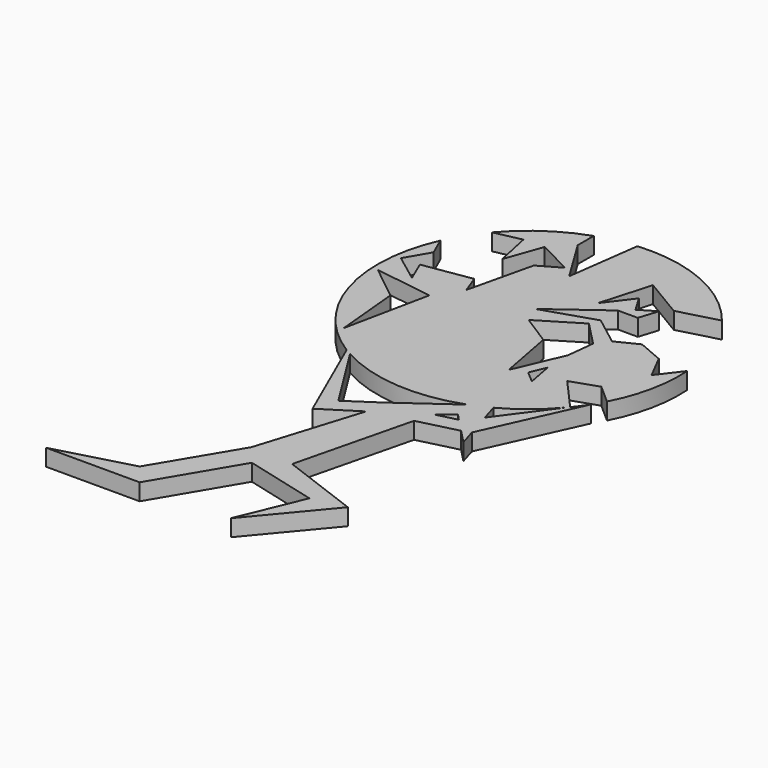
from build123d import *

# Parameters (mm, degrees)
F1_DEPTH = 4


with BuildPart() as f1:
    # F0 (on Top) → F1 (new body)
    with BuildSketch(Plane.XY):
        with BuildLine():
            Line((-9.863807, -65.836951), (-28.221913, -70.849411))
            Line((-28.221913, -70.849411), (-5.88068, -70.849411))
            Line((-5.88068, -70.849411), (5.52761, -51.597916))
            Line((5.52761, -51.597916), (22.877717, -56.113698))
            Line((22.877717, -56.113698), (16.460553, -71.562424))
            Line((16.460553, -71.562424), (30.720916, -54.44999))
            Line((30.720916, -54.44999), (11.707101, -47.319807))
            Line((11.707101, -47.319807), (18.559989, -19.489294))
            Line((18.559989, -19.489294), (27.928099, -17.142748))
            Line((27.928099, -17.142748), (31.150259, -20.496517))
            Line((31.150259, -20.496517), (29.922873, -16.418136))
            Line((29.922873, -16.418136), (40.215254, 6.320762))
            ThreePointArc((40.215254, 6.320762), (39.07685, 4.638557), (37.845484, 3.023156))
            Line((37.845484, 3.023156), (30.833699, 10.89257))
            Line((30.833699, 10.89257), (37.233405, 13.086755))
            Line((37.233405, 13.086755), (41.796244, 9.064083))
            ThreePointArc((41.796244, 9.064083), (45.083627, 18.276724), (45.772686, 28.03402))
            Line((45.772686, 28.03402), (41.621767, 22.594886))
            Line((41.621767, 22.594886), (38.548019, 28.587904))
            Line((38.548019, 28.587904), (32.479335, 31.188771))
            Line((32.479335, 31.188771), (27.359569, 28.628892))
            Line((27.359569, 28.628892), (20.41132, 33.931505))
            Line((20.41132, 33.931505), (7.97761, 29.908832))
            Line((7.97761, 29.908832), (20.41132, 39.051265))
            Line((20.41132, 39.051265), (25.165388, 39.051265))
            Line((25.165388, 39.051265), (26.628176, 43.622486))
            Line((26.628176, 43.622486), (22.788357, 41.336875))
            Line((22.788357, 41.336875), (20.41132, 45.33029))
            Line((20.41132, 45.33029), (15.657255, 39.051265))
            Line((15.657255, 39.051265), (19.131379, 51.119279))
            Line((19.131379, 51.119279), (28.63951, 45.450971))
            Line((28.63951, 45.450971), (38.112831, 47.983287))
            ThreePointArc((38.112831, 47.983287), (24.277711, 58.679623), (7.036208, 61.604132))
            Line((7.036208, 61.604132), (4.686333, 44.171032))
            Line((4.686333, 44.171032), (-1.90921, 54.959098))
            Line((-1.90921, 54.959098), (-1.90921, 59.75246))
            ThreePointArc((-1.90921, 59.75246), (-10.497436, 55.445101), (-17.642448, 49.021725))
            Line((-17.642448, 49.021725), (-11.221501, 50.387885))
            Line((-11.221501, 50.387885), (-9.393012, 41.793998))
            Line((-9.393012, 41.793998), (-6.284588, 50.570734))
            Line((-6.284588, 50.570734), (1.943606, 46.365213))
            Line((1.943606, 46.365213), (-3.17616, 43.439634))
            Line((-3.17616, 43.439634), (-6.833133, 27.897498))
            Line((-6.833133, 27.897498), (-8.47877, 32.285865))
            Line((-8.47877, 32.285865), (-19.998237, 30.457377))
            Line((-19.998237, 30.457377), (-17.804054, 25.337616))
            Line((-17.804054, 25.337616), (-24.386607, 30.274531))
            Line((-24.386607, 30.274531), (-21.09533, 35.942841))
            Line((-21.09533, 35.942841), (-23.083921, 40.398134))
            ThreePointArc((-23.083921, 40.398134), (-24.639853, 15.082316), (-9.133734, -4.989351))
            Line((-9.133734, -4.989351), (0.724342, -27.495166))
            Line((0.724342, -27.495166), (9.211371, -22.117248))
            Line((9.211371, -22.117248), (1.528105, -46.750505))
            Line((1.528105, -46.750505), (-9.863807, -65.836951))
        make_face()
        with BuildLine():
            ThreePointArc((-7.636228, -5.865513), (7.079238, -10.265979), (22.290661, -8.13956))
            Line((22.290661, -8.13956), (9.517227, -17.271729))
            Line((9.517227, -17.271729), (2.47791, -21.973379))
            Line((2.47791, -21.973379), (-7.636228, -5.865513))
        make_face(mode=Mode.SUBTRACT)
        Polygon((23.370633, -12.399131), (24.836801, -13.925185), (19.892599, -15.154307), align=None, mode=Mode.SUBTRACT)
        Polygon((-16.524114, 17.292272), (-24.752304, 23.874825), (-10.855804, 21.863492), (-15.061324, 1.567287), align=None, mode=Mode.SUBTRACT)
        Polygon((25.768461, 6.672658), (22.971205, 9.064083), (24.597929, 12.859768), align=None, mode=Mode.SUBTRACT)
        Polygon((24.433995, 19.12076), (19.497076, 7.601293), (16.937198, 21.132095), (9.809952, 25.670725), (19.497076, 31.554472), (25.165388, 25.703313), align=None, mode=Mode.SUBTRACT)
        with BuildLine():
            Line((28.05753, -10.219939), (26.818711, -6.103566))
            ThreePointArc((26.818711, -6.103566), (32.490768, -2.337917), (37.353444, 2.427242))
            Line((37.353444, 2.427242), (28.05753, -10.219939))
        make_face(mode=Mode.SUBTRACT)
    extrude(amount=F1_DEPTH)


solid = f1.part
